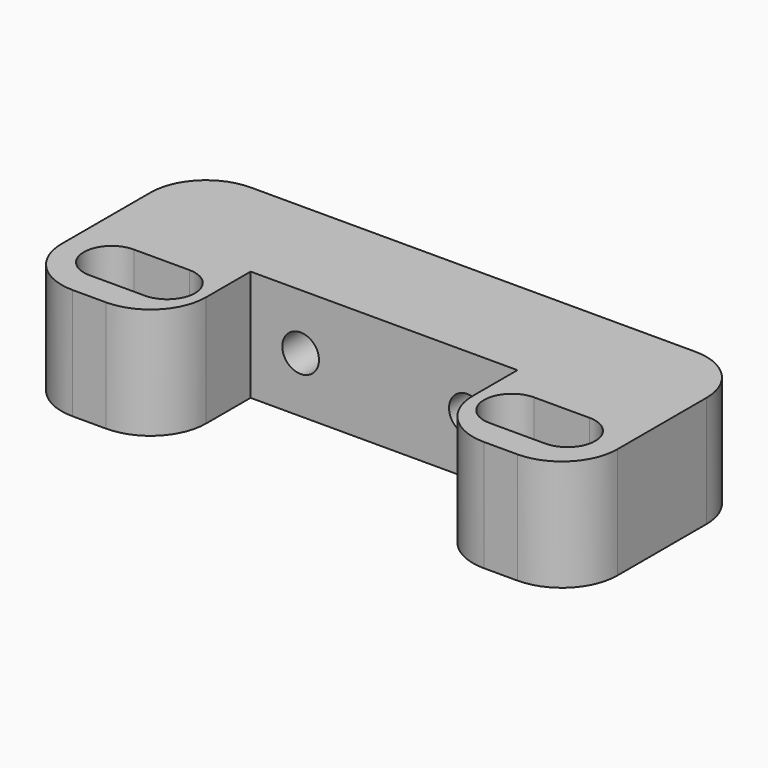
from build123d import *

# Parameters (mm, degrees)
F1_DEPTH = 10
F2_W     = 5
F2_H     = 5
F3_DEPTH = 10
F4_R     = 1.65
F5_DEPTH = 10.001
F6_R     = 5


with BuildPart() as f1:
    # F0 (on Top) → F1 (new body)
    with BuildSketch(Plane.XY):
        Polygon((25, 10), (-25, 10), (-25, -10), (-12, -10), (-12, 0), (12, 0), (12, -10), (25, -10), align=None)
    extrude(amount=F1_DEPTH)

    # F2 (on face) → F3 (cut)
    with BuildSketch(Plane.XY.offset(10)):
        with Locations((-18, -5)):
            Rectangle(F2_W, F2_H)
        with BuildLine():
            Line((-20.5, -7.5), (-20.5, -2.5))
            ThreePointArc((-20.5, -2.5), (-23, -5), (-20.5, -7.5))
        make_face()
        with BuildLine():
            ThreePointArc((-15.5, -7.5), (-13, -5), (-15.5, -2.5))
            Line((-15.5, -2.5), (-15.5, -7.5))
        make_face()
        with Locations((18, -5)):
            Rectangle(F2_W, F2_H)
        with BuildLine():
            Line((15.5, -7.5), (15.5, -2.5))
            ThreePointArc((15.5, -2.5), (13, -5), (15.5, -7.5))
        make_face()
        with BuildLine():
            ThreePointArc((20.5, -7.5), (23, -5), (20.5, -2.5))
            Line((20.5, -2.5), (20.5, -7.5))
        make_face()
    extrude(amount=-F3_DEPTH, mode=Mode.SUBTRACT)

    # F4 (on face) → F5 (cut, through all)
    with BuildSketch(Plane.XZ):
        with Locations((-7.5, 5)):
            Circle(F4_R)
        with Locations((7.5, 5)):
            Circle(F4_R)
    extrude(amount=-F5_DEPTH, mode=Mode.SUBTRACT)

    # F6
    f6_edges = [f1.edges().sort_by_distance(p)[0] for p in [
        (-25, -10, 5),
        (-12, -10, 5),
        (12, -10, 5),
        (25, -10, 5),
        (25, 10, 5),
        (-25, 10, 5),
    ]]
    fillet(f6_edges, radius=F6_R)


solid = f1.part
